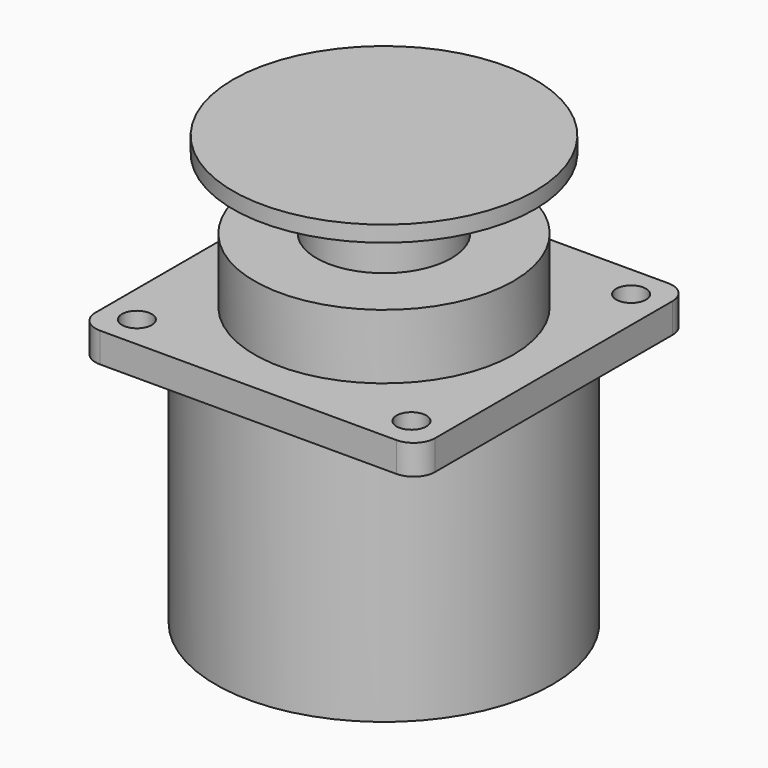
from build123d import *

# Parameters (mm, degrees)
F0_R      = 8.763
F1_DEPTH  = 17.526
F2_R      = 99.06
F3_DEPTH  = 163.576
F4_R      = 76.2
F5_DEPTH  = 38.1
F6_R      = 39.6875
F7_DEPTH  = 41.402
F9_R      = 88.9
F10_DEPTH = 9.398


with BuildPart() as f1:
    # F0 (on Top) → F1 (new body)
    with BuildSketch(Plane.XY):
        with BuildLine():
            Line((87.3125, 100.0125), (-87.3125, 100.0125))
            ThreePointArc((-87.3125, 100.0125), (-96.292756, 96.292756), (-100.0125, 87.3125))
            Line((-100.0125, 87.3125), (-100.0125, -87.3125))
            ThreePointArc((-100.0125, -87.3125), (-96.292756, -96.292756), (-87.3125, -100.0125))
            Line((-87.3125, -100.0125), (87.3125, -100.0125))
            ThreePointArc((87.3125, -100.0125), (96.292756, -96.292756), (100.0125, -87.3125))
            Line((100.0125, -87.3125), (100.0125, 87.3125))
            ThreePointArc((100.0125, 87.3125), (96.292756, 96.292756), (87.3125, 100.0125))
        make_face()
        with Locations((-80.822305, -80.822305)):
            Circle(F0_R, mode=Mode.SUBTRACT)
        with Locations((80.822305, -80.822305)):
            Circle(F0_R, mode=Mode.SUBTRACT)
        with Locations((-80.822305, 80.822305)):
            Circle(F0_R, mode=Mode.SUBTRACT)
        with Locations((80.822305, 80.822305)):
            Circle(F0_R, mode=Mode.SUBTRACT)
    extrude(amount=F1_DEPTH)

    # F2 (on face) → F3 (join)
    with BuildSketch(Plane.XY.offset(17.526)):
        Circle(F2_R)
    extrude(amount=-F3_DEPTH)

    # F4 (on face) → F5 (join)
    with BuildSketch(Plane.XY.offset(17.526)):
        Circle(F4_R)
    extrude(amount=F5_DEPTH)

    # F6 (on face) → F7 (join)
    with BuildSketch(Plane.XY.offset(55.626)):
        Circle(F6_R)
    extrude(amount=F7_DEPTH)

    # F9 (on offset) → F10 (join, through all)
    with BuildSketch(Plane.XY.offset(106.426)):
        Circle(F9_R)
    extrude(amount=-F10_DEPTH)


solid = f1.part
